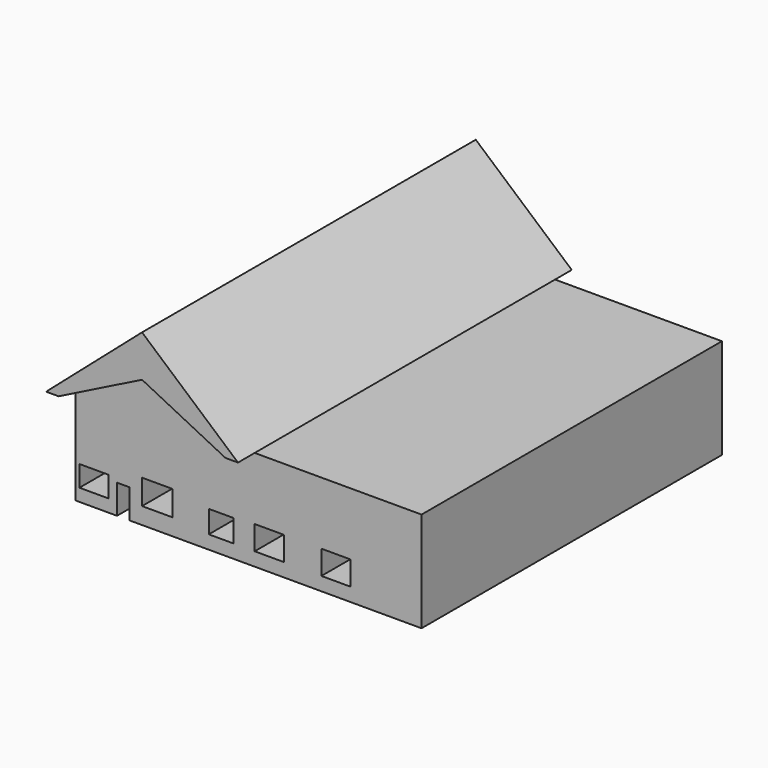
from build123d import *

# Parameters (mm, degrees)
F1_DEPTH = 1270
F0_W     = 177.8
F0_H     = 127
F0_W_2   = 186.0230279326
F0_H_2   = 152.4
F0_W_3   = 151.4337956905
F0_H_3   = 136.6598010063
F0_H_4   = 146.2624492645
F2_DEPTH = 1143


with BuildPart() as f1:
    # F0 (on Front) → F1 (new body, symmetric)
    with BuildSketch(Plane.XZ):
        Polygon((-584.2, 0), (-508, 0), (0, 254), (0, 508), align=None)
        Polygon((0, 254), (508, 0), (584.2, 0), (0, 508), align=None)
    extrude(amount=F1_DEPTH, both=True)

    # F0 (on Front) → F2 (join, symmetric)
    with BuildSketch(Plane.XZ):
        Polygon((-584.2, 0), (-508, 0), (0, 254), (0, 508), align=None)
        Polygon((0, 254), (508, 0), (584.2, 0), (0, 508), align=None)
        Polygon((0, 254), (0, 0), (508, 0), align=None)
        Polygon((-508, 0), (0, 0), (0, 254), align=None)
        Polygon((508, 0), (0, 0), (-508, 0), (-508, -609.6), (-254, -609.6), (-254, -431.8), (-177.8, -431.8), (-177.8, -609.6), (508, -609.6), align=None)
        with Locations((-393.7, -469.9)):
            Rectangle(F0_W, F0_H, mode=Mode.SUBTRACT)
        with Locations((-8.5884860337, -431.8)):
            Rectangle(F0_W_2, F0_H_2, mode=Mode.SUBTRACT)
        with Locations((380.5168978453, -458.9325487614)):
            Rectangle(F0_W_3, F0_H_3, mode=Mode.SUBTRACT)
        Polygon((584.2, 0), (508, 0), (508, -609.6), (1600.2, -609.6), (1600.2, 0), align=None)
        with Locations((673.1, -454.1312246323)):
            Rectangle(F0_W, F0_H_4, mode=Mode.SUBTRACT)
        with Locations((1079.5, -454.1312246323)):
            Rectangle(F0_W, F0_H_4, mode=Mode.SUBTRACT)
    extrude(amount=F2_DEPTH, both=True)


solid = f1.part
